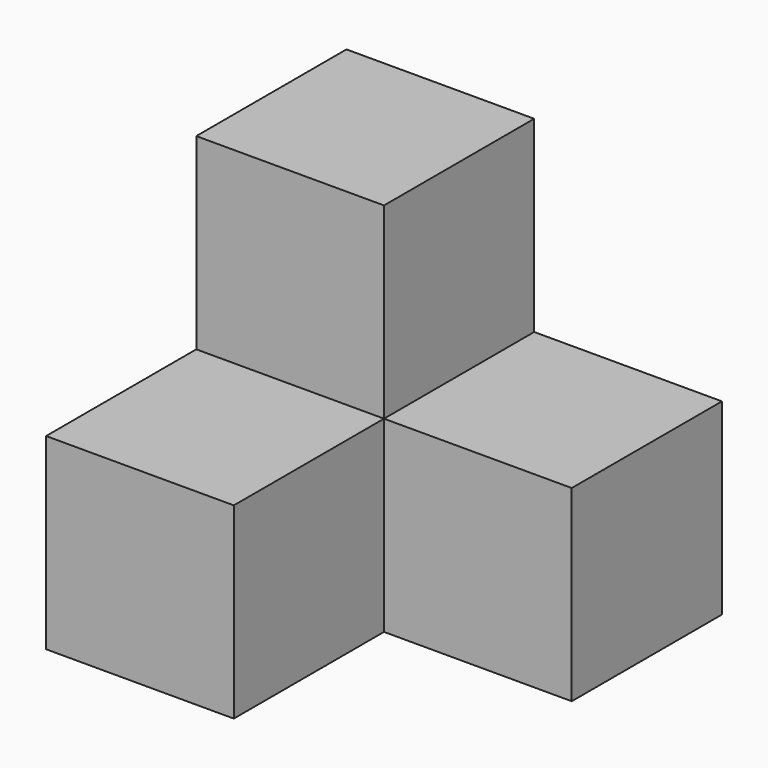
from build123d import *

# Parameters (mm, degrees)
F0_W      = 6
F0_H      = 6
F1_DEPTH  = 6
F1_FACE_W = 6
F1_FACE_H = 6
F5_W      = 6
F5_H      = 6
F6_DEPTH  = 6
F7_W      = 6
F7_H      = 6
F8_DEPTH  = 6


with BuildPart() as f1:
    # F0 (on Top) → F1 (new body)
    with BuildSketch(Plane.XY):
        with Locations((-3, 3)):
            Rectangle(F0_W, F0_H)
    extrude(amount=F1_DEPTH)

    # F3: sweep along a path in F2
    with BuildLine(Plane.XY) as f3_path:
        Line((0, 3.029319), (6, 3.029319))
    # F1_face (on face) → F3 (sweep)
    with BuildSketch(Plane(origin=(0, 3, 3), x_dir=(0, 1, 0), z_dir=(1, 0, 0))):
        Rectangle(F1_FACE_W, F1_FACE_H)
    sweep(path=f3_path.line)

    # F5 (on offset) → F6 (join)
    with BuildSketch(Plane.XY.offset(6)):
        with Locations((-3, 3)):
            Rectangle(F5_W, F5_H)
    extrude(amount=F6_DEPTH)

    # F7 (on Top) → F8 (join)
    with BuildSketch(Plane.XY):
        with Locations((-3, -3)):
            Rectangle(F7_W, F7_H)
    extrude(amount=F8_DEPTH)


solid = f1.part
